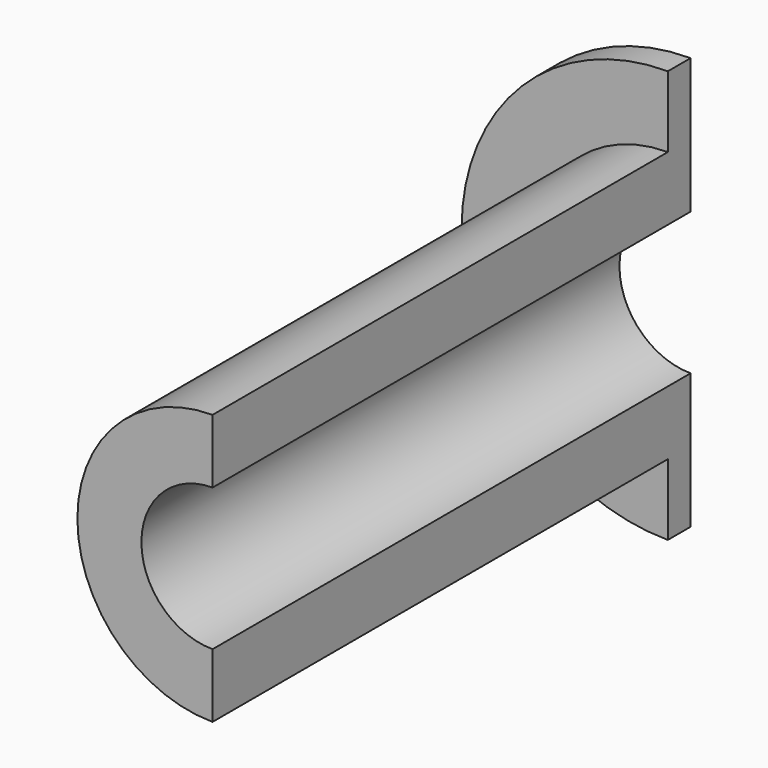
from build123d import *

# Parameters (mm, degrees)
F2_R     = 6.35
F3_DEPTH = 101.6
F5_DEPTH = 127


with BuildPart() as f1:
    # F0 (on Top) → F1 (revolve)
    with BuildSketch(Plane.XY):
        Polygon((0, 37.726658), (0, -15.613342), (12.065, -15.613342), (12.065, 35.186658), (18.415, 35.186658), (18.415, 37.726658), align=None)
    revolve(axis=Axis((0, 11.056658, 0), (0, -1, 0)))

    # F2 (on face) → F3 (cut)
    with BuildSketch(Plane(origin=(0, 37.726658, 0), x_dir=(-1, 0, 0), z_dir=(0, 1, 0))):
        Circle(F2_R)
    extrude(amount=-F3_DEPTH, mode=Mode.SUBTRACT)

    # F4 (on face) → F5 (cut)
    with BuildSketch(Plane(origin=(0, 37.726658, 0), x_dir=(-1, 0, 0), z_dir=(0, 1, 0))):
        Polygon((0, 18.415), (0, 18.85934), (0, 32.270402), (-18.049083, 25.601261), (-23.923116, -16.779846), (0, -20.095596), align=None)
    extrude(amount=-F5_DEPTH, mode=Mode.SUBTRACT)


solid = f1.part
